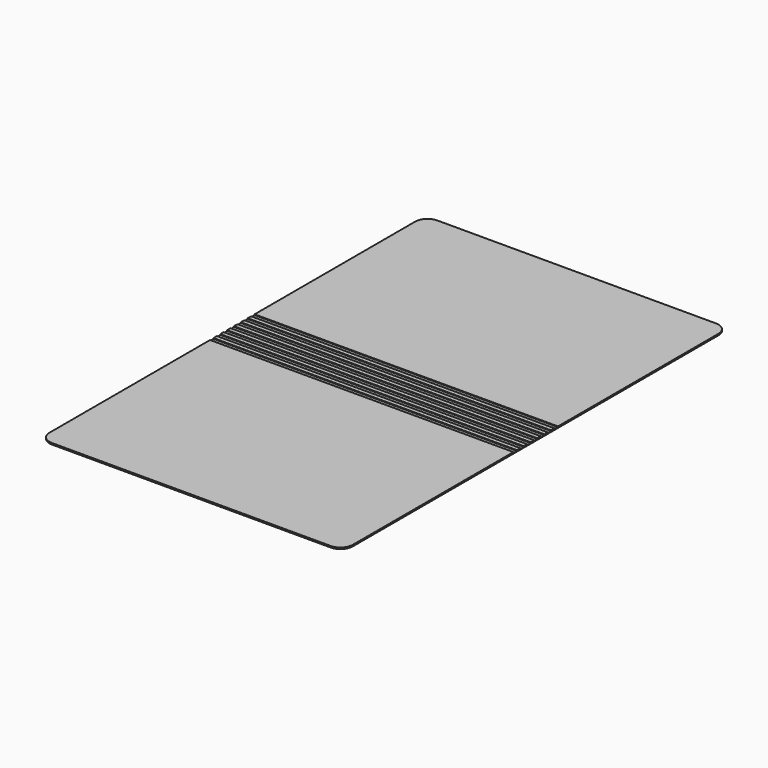
from build123d import *

# Parameters (mm, degrees)
F1_DEPTH = 0.2
F3_DEPTH = 0.4
F2_W     = 85
F2_H     = 1.2
F4_DEPTH = 0.2


with BuildPart() as f1:
    # F0 (on Top) → F1 (new body)
    with BuildSketch(Plane.XY):
        with BuildLine():
            ThreePointArc((42.5, 64), (41.474874, 66.474874), (39, 67.5))
            Line((39, 67.5), (-39, 67.5))
            ThreePointArc((-39, 67.5), (-41.474874, 66.474874), (-42.5, 64))
            Line((-42.5, 64), (-42.5, -64))
            ThreePointArc((-42.5, -64), (-41.474874, -66.474874), (-39, -67.5))
            Line((-39, -67.5), (39, -67.5))
            ThreePointArc((39, -67.5), (41.474874, -66.474874), (42.5, -64))
            Line((42.5, -64), (42.5, 64))
        make_face()
    extrude(amount=F1_DEPTH)

    # F0 (on Top) → F3 (join)
    with BuildSketch(Plane.XY):
        with BuildLine():
            ThreePointArc((42.5, 64), (41.474874, 66.474874), (39, 67.5))
            Line((39, 67.5), (-39, 67.5))
            ThreePointArc((-39, 67.5), (-41.474874, 66.474874), (-42.5, 64))
            Line((-42.5, 64), (-42.5, -64))
            ThreePointArc((-42.5, -64), (-41.474874, -66.474874), (-39, -67.5))
            Line((-39, -67.5), (39, -67.5))
            ThreePointArc((39, -67.5), (41.474874, -66.474874), (42.5, -64))
            Line((42.5, -64), (42.5, 64))
        make_face()
    extrude(amount=F3_DEPTH)

    # F2 (on face) → F4 (cut, through all)
    with BuildSketch(Plane.XY.offset(0.2)):
        Rectangle(F2_W, F2_H)
        with Locations((0, 2.4)):
            Rectangle(F2_W, F2_H)
        with Locations((0, 4.8)):
            Rectangle(F2_W, F2_H)
        with Locations((0, -2.4)):
            Rectangle(F2_W, F2_H)
        with Locations((0, -4.8)):
            Rectangle(F2_W, F2_H)
        with Locations((0, 7.2)):
            Rectangle(F2_W, F2_H)
        with Locations((0, -7.2)):
            Rectangle(F2_W, F2_H)
    extrude(amount=F4_DEPTH, mode=Mode.SUBTRACT)


solid = f1.part
